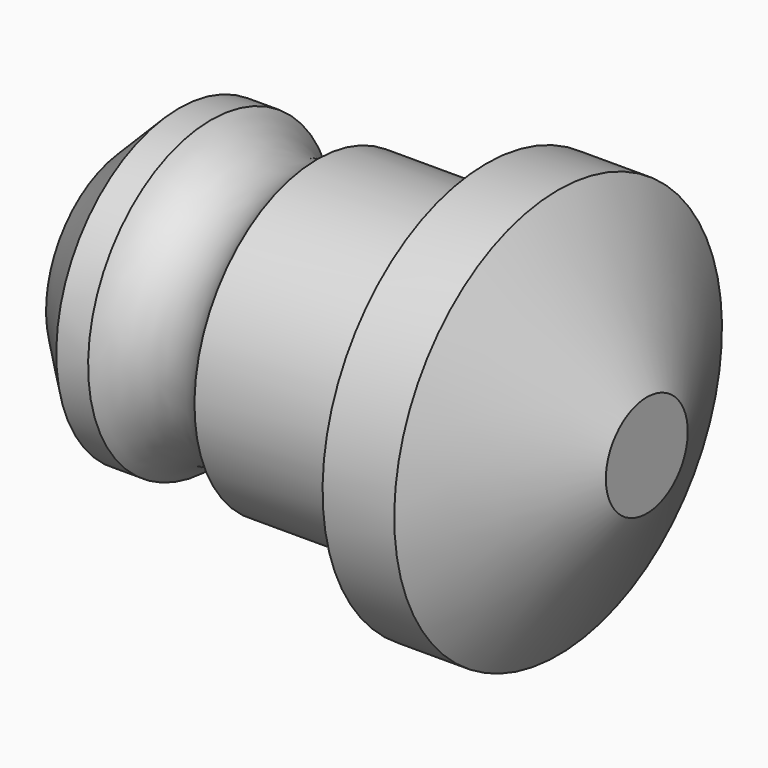
from build123d import *


with BuildPart() as f1:
    # F0 (on Front) → F1 (revolve)
    with BuildSketch(Plane.XZ):
        with BuildLine():
            Line((-26.660254, 0), (-1, 0))
            Line((-1, 0), (-1, 5))
            Line((-1, 5), (-9.660254, 20))
            Line((-9.660254, 20), (-16.660254, 20))
            Line((-16.660254, 20), (-16.660254, 15))
            Line((-16.660254, 15), (-33.168647, 15))
            ThreePointArc((-33.168647, 15), (-38.360685, 12.40621), (-43.552724, 15))
            Line((-43.552724, 15), (-46.660254, 15))
            Line((-46.660254, 15), (-51.660254, 10))
            Line((-51.660254, 10), (-51.660254, 7))
            Line((-51.660254, 7), (-41.660254, 7))
            Line((-41.660254, 7), (-41.660254, 5))
            Line((-41.660254, 5), (-26.660254, 5))
            Line((-26.660254, 5), (-26.660254, 0))
        make_face()
    revolve(axis=Axis((-30.367628, 0, 0), (1, 0, 0)))


solid = f1.part
